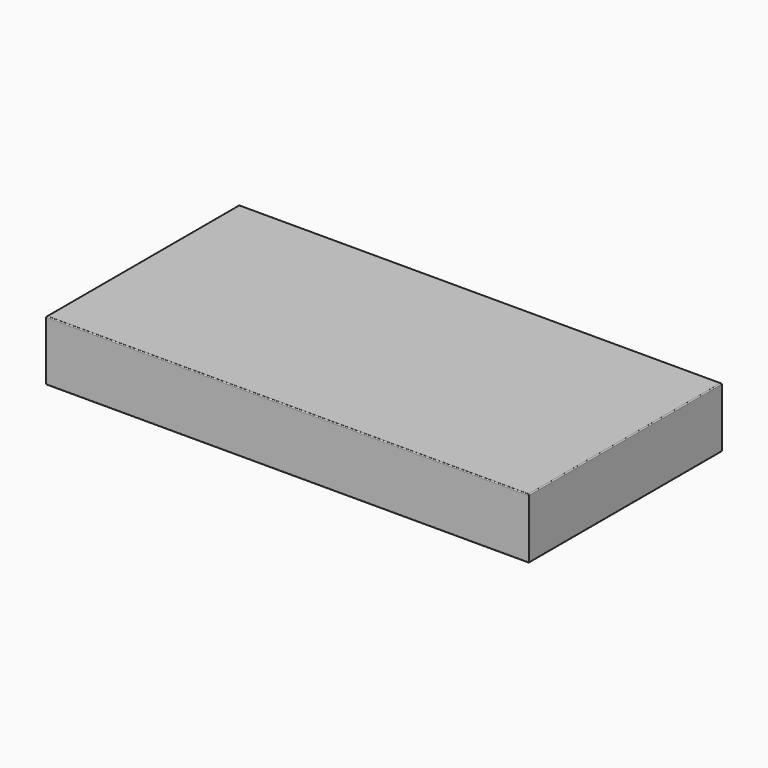
from build123d import *

# Parameters (mm, degrees)
F0_W     = 100
F0_H     = 50
F1_DEPTH = 12.5
F2_R     = 0.2


with BuildPart() as f1:
    # F0 (on Top) → F1 (new body)
    with BuildSketch(Plane.XY):
        with Locations((50, 25)):
            Rectangle(F0_W, F0_H)
    extrude(amount=-F1_DEPTH)

    # F2
    f2_edges = [f1.edges().sort_by_distance(p)[0] for p in [
        (0, 25, 0),
        (50, 0, 0),
        (100, 25, 0),
        (50, 50, 0),
        (0, 25, -12.5),
        (50, 0, -12.5),
        (100, 25, -12.5),
        (50, 50, -12.5),
    ]]
    fillet(f2_edges, radius=F2_R)


solid = f1.part
